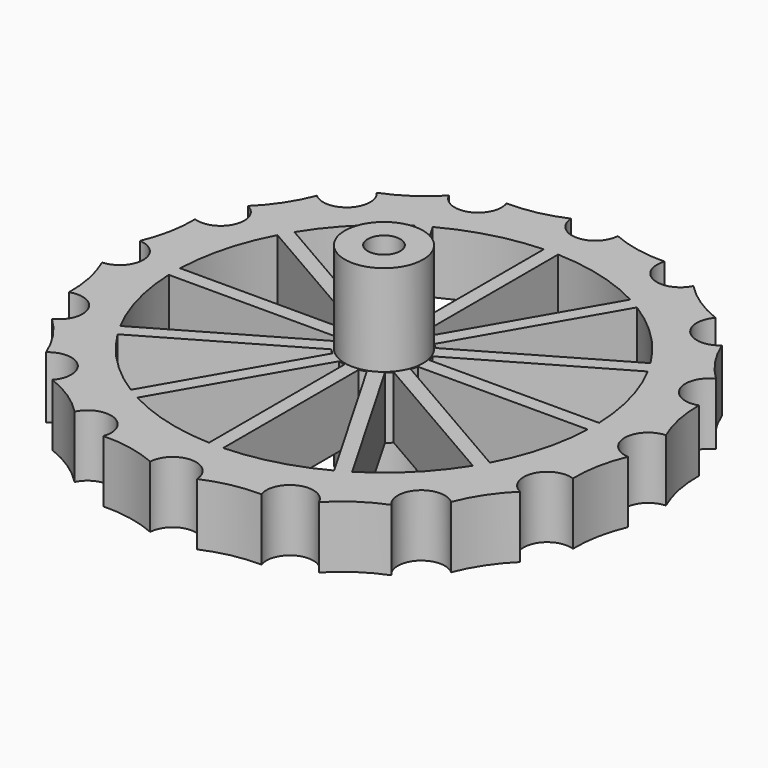
from build123d import *

# Parameters (mm, degrees)
F3_DEPTH = 15.501
F5_DEPTH = 25


with BuildPart() as f1:
    # F0 (on Front) → F1 (revolve)
    with BuildSketch(Plane.XZ):
        Polygon((6, 29.5), (2.5, 29.5), (2.5, 0), (6, 0), (6, 6), (40.5, 6), (40.5, 15.5), (6, 15.5), align=None)
    revolve(axis=Axis((0, 0, 0.1838468015), (0, 0, -1)))

    # F2 (on face) → F3 (cut, through all)
    with BuildSketch(Plane.XY.offset(15.5)):
        with BuildLine():
            ThreePointArc((40.5, 0), (40.4599802274, 1.8), (40.34, 3.5964426869))
            ThreePointArc((40.34, 3.5964426869), (36.9000513354, 0.0192253002), (40.3015970682, -3.5945286585))
            ThreePointArc((40.3015970682, -3.5945286585), (40.3207959787, -3.5955369444), (40.34, -3.5964426869))
            ThreePointArc((40.34, -3.5964426869), (40.4599802274, -1.8), (40.5, 0))
        make_face()
        with BuildLine():
            ThreePointArc((35.8930013098, 18.7601294499), (37.4171210667, 15.4986790108), (38.6455993732, 12.1147698734))
            ThreePointArc((38.6455993732, 12.1147698734), (40.3652155278, 13.43258631), (41.0171210667, 15.4986790108))
            ThreePointArc((41.0171210667, 15.4986790108), (39.3501457529, 18.5356866766), (35.8930013098, 18.7601294499))
        make_face()
        with BuildLine():
            ThreePointArc((25.981618541, 31.0677565651), (28.6378246381, 28.6378246381), (31.0677565651, 25.981618541))
            ThreePointArc((31.0677565651, 25.981618541), (31.9323469811, 27.1865760269), (32.2378246381, 28.6378246381))
            ThreePointArc((32.2378246381, 28.6378246381), (29.9412159935, 31.9935914617), (25.981618541, 31.0677565651))
        make_face()
        with BuildLine():
            ThreePointArc((12.1147698734, 38.6455993732), (15.4986790108, 37.4171210667), (18.7601294499, 35.8930013098))
            ThreePointArc((18.7601294499, 35.8930013098), (19.0130225897, 36.6364872155), (19.0986790108, 37.4171210667))
            ThreePointArc((19.0986790108, 37.4171210667), (16.1223484365, 40.962686811), (12.1147698734, 38.6455993732))
        make_face()
        with BuildLine():
            ThreePointArc((-3.5964426869, 40.34), (0, 40.5), (3.5964426869, 40.34))
            ThreePointArc((3.5964426869, 40.34), (3.5991105618, 40.4199802298), (3.6, 40.5))
            ThreePointArc((3.6, 40.5), (-0.0800197702, 44.0991105618), (-3.5964426869, 40.34))
        make_face()
        with BuildLine():
            ThreePointArc((-18.7601294499, 35.8930013098), (-15.4986790108, 37.4171210667), (-12.1147698734, 38.6455993732))
            ThreePointArc((-12.1147698734, 38.6455993732), (-16.8763393673, 40.7430873837), (-18.7601294499, 35.8930013098))
        make_face()
        with BuildLine():
            ThreePointArc((-31.0677565651, 25.981618541), (-28.6378246381, 28.6378246381), (-25.981618541, 31.0677565651))
            ThreePointArc((-25.981618541, 31.0677565651), (-31.1834090503, 31.1834090503), (-31.0677565651, 25.981618541))
        make_face()
        with BuildLine():
            ThreePointArc((-38.6455993732, 12.1147698734), (-37.4171210667, 15.4986790108), (-35.8930013098, 18.7601294499))
            ThreePointArc((-35.8930013098, 18.7601294499), (-40.7430873837, 16.8763393673), (-38.6455993732, 12.1147698734))
        make_face()
        with BuildLine():
            ThreePointArc((-40.34, -3.5964426869), (-40.5, 0), (-40.34, 3.5964426869))
            ThreePointArc((-40.34, 3.5964426869), (-44.1, 0), (-40.34, -3.5964426869))
        make_face()
        with BuildLine():
            ThreePointArc((-38.6455993732, -12.1147698734), (-40.7430873837, -16.8763393673), (-35.8930013098, -18.7601294499))
            ThreePointArc((-35.8930013098, -18.7601294499), (-37.4171210667, -15.4986790108), (-38.6455993732, -12.1147698734))
        make_face()
        with BuildLine():
            ThreePointArc((-31.0677565651, -25.981618541), (-31.1834090503, -31.1834090503), (-25.981618541, -31.0677565651))
            ThreePointArc((-25.981618541, -31.0677565651), (-28.6378246381, -28.6378246381), (-31.0677565651, -25.981618541))
        make_face()
        with BuildLine():
            ThreePointArc((-18.7601294499, -35.8930013098), (-16.8763393673, -40.7430873837), (-12.1147698734, -38.6455993732))
            ThreePointArc((-12.1147698734, -38.6455993732), (-15.4986790108, -37.4171210667), (-18.7601294499, -35.8930013098))
        make_face()
        with BuildLine():
            ThreePointArc((3.6, -40.5), (3.5991105618, -40.4199802298), (3.5964426869, -40.34))
            ThreePointArc((3.5964426869, -40.34), (0, -40.5), (-3.5964426869, -40.34))
            ThreePointArc((-3.5964426869, -40.34), (-0.0800197702, -44.0991105618), (3.6, -40.5))
        make_face()
        with BuildLine():
            ThreePointArc((19.0986790108, -37.4171210667), (19.0130225897, -36.6364872155), (18.7601294499, -35.8930013098))
            ThreePointArc((18.7601294499, -35.8930013098), (15.4986790108, -37.4171210667), (12.1147698734, -38.6455993732))
            ThreePointArc((12.1147698734, -38.6455993732), (16.1223484365, -40.962686811), (19.0986790108, -37.4171210667))
        make_face()
        with BuildLine():
            ThreePointArc((32.2378246381, -28.6378246381), (31.9323469811, -27.1865760269), (31.0677565651, -25.981618541))
            ThreePointArc((31.0677565651, -25.981618541), (28.6378246381, -28.6378246381), (25.981618541, -31.0677565651))
            ThreePointArc((25.981618541, -31.0677565651), (29.9412159935, -31.9935914617), (32.2378246381, -28.6378246381))
        make_face()
        with BuildLine():
            ThreePointArc((41.0171210667, -15.4986790108), (40.3652155278, -13.43258631), (38.6455993732, -12.1147698734))
            ThreePointArc((38.6455993732, -12.1147698734), (37.4171210667, -15.4986790108), (35.8930013098, -18.7601294499))
            ThreePointArc((35.8930013098, -18.7601294499), (39.3501457529, -18.5356866766), (41.0171210667, -15.4986790108))
        make_face()
        with BuildLine():
            ThreePointArc((40.5, 0), (40.4599802274, 1.8), (40.34, 3.5964426869))
            ThreePointArc((40.34, 3.5964426869), (36.9000513354, 0.0192253002), (40.3015970682, -3.5945286585))
            ThreePointArc((40.3015970682, -3.5945286585), (40.3207959787, -3.5955369444), (40.34, -3.5964426869))
            ThreePointArc((40.34, -3.5964426869), (40.4599802274, -1.8), (40.5, 0))
        make_face()
        with BuildLine():
            ThreePointArc((35.8930013098, 18.7601294499), (34.0838449735, 14.1388001609), (38.6093872236, 12.1018420393))
            ThreePointArc((38.6093872236, 12.1018420393), (38.6275105584, 12.1082576095), (38.6455993732, 12.1147698734))
            ThreePointArc((38.6455993732, 12.1147698734), (37.4171210667, 15.4986790108), (35.8930013098, 18.7601294499))
        make_face()
        with BuildLine():
            ThreePointArc((25.981618541, 31.0677565651), (26.0786821852, 26.1058708656), (31.0392481691, 25.95581699))
            ThreePointArc((31.0392481691, 25.95581699), (31.0535368148, 25.9686797039), (31.0677565651, 25.981618541))
            ThreePointArc((31.0677565651, 25.981618541), (28.6378246381, 28.6378246381), (25.981618541, 31.0677565651))
        make_face()
        with BuildLine():
            ThreePointArc((12.1147698734, 38.6455993732), (14.1032764381, 34.0985593813), (18.7436649524, 35.8582540941))
            ThreePointArc((18.7436649524, 35.8582540941), (18.7519435922, 35.8756057202), (18.7601294499, 35.8930013098))
            ThreePointArc((18.7601294499, 35.8930013098), (15.4986790108, 37.4171210667), (12.1147698734, 38.6455993732))
        make_face()
        with BuildLine():
            ThreePointArc((-3.5964426869, 40.34), (-0.0192253002, 36.9000513354), (3.5945286585, 40.3015970682))
            ThreePointArc((3.5945286585, 40.3015970682), (3.5955369444, 40.3207959787), (3.5964426869, 40.34))
            ThreePointArc((3.5964426869, 40.34), (0, 40.5), (-3.5964426869, 40.34))
        make_face()
        with BuildLine():
            ThreePointArc((-11.8986790108, 37.4171210667), (-11.9498332056, 38.0218469974), (-12.1018420393, 38.6093872236))
            ThreePointArc((-12.1018420393, 38.6093872236), (-12.1082576095, 38.6275105584), (-12.1147698734, 38.6455993732))
            ThreePointArc((-12.1147698734, 38.6455993732), (-15.4986790108, 37.4171210667), (-18.7601294499, 35.8930013098))
            ThreePointArc((-18.7601294499, 35.8930013098), (-14.7180451596, 33.9027774878), (-11.8986790108, 37.4171210667))
        make_face()
        with BuildLine():
            ThreePointArc((-25.0378246381, 28.6378246381), (-25.2751450865, 29.9232764005), (-25.95581699, 31.0392481691))
            ThreePointArc((-25.95581699, 31.0392481691), (-25.9686797039, 31.0535368148), (-25.981618541, 31.0677565651))
            ThreePointArc((-25.981618541, 31.0677565651), (-28.6378246381, 28.6378246381), (-31.0677565651, 25.981618541))
            ThreePointArc((-31.0677565651, 25.981618541), (-27.1865760269, 25.343302295), (-25.0378246381, 28.6378246381))
        make_face()
        with BuildLine():
            ThreePointArc((-33.8171210667, 15.4986790108), (-34.3698336581, 17.4154574146), (-35.8582540941, 18.7436649524))
            ThreePointArc((-35.8582540941, 18.7436649524), (-35.8756057202, 18.7519435922), (-35.8930013098, 18.7601294499))
            ThreePointArc((-35.8930013098, 18.7601294499), (-37.4171210667, 15.4986790108), (-38.6455993732, 12.1147698734))
            ThreePointArc((-38.6455993732, 12.1147698734), (-35.3510283659, 12.5505845497), (-33.8171210667, 15.4986790108))
        make_face()
        with BuildLine():
            ThreePointArc((-36.9, 0), (-37.8852102805, 2.4744443261), (-40.3015970682, 3.5945286585))
            ThreePointArc((-40.3015970682, 3.5945286585), (-40.3207959787, 3.5955369444), (-40.34, 3.5964426869))
            ThreePointArc((-40.34, 3.5964426869), (-40.5, 0), (-40.34, -3.5964426869))
            ThreePointArc((-40.34, -3.5964426869), (-37.8984619934, -2.4883729624), (-36.9, 0))
        make_face()
        with BuildLine():
            ThreePointArc((-38.6455993732, -12.1147698734), (-37.4171210667, -15.4986790108), (-35.8930013098, -18.7601294499))
            ThreePointArc((-35.8930013098, -18.7601294499), (-34.3801134009, -17.431703697), (-33.8171210667, -15.4986790108))
            ThreePointArc((-33.8171210667, -15.4986790108), (-35.3353139388, -12.5616602702), (-38.6093872236, -12.1018420393))
            ThreePointArc((-38.6093872236, -12.1018420393), (-38.6275105584, -12.1082576095), (-38.6455993732, -12.1147698734))
        make_face()
        with BuildLine():
            ThreePointArc((-31.0677565651, -25.981618541), (-28.6378246381, -28.6378246381), (-25.981618541, -31.0677565651))
            ThreePointArc((-25.981618541, -31.0677565651), (-25.2820578144, -29.9412159935), (-25.0378246381, -28.6378246381))
            ThreePointArc((-25.0378246381, -28.6378246381), (-27.1690027823, -25.3510994661), (-31.0392481691, -25.95581699))
            ThreePointArc((-31.0392481691, -25.95581699), (-31.0535368148, -25.9686797039), (-31.0677565651, -25.981618541))
        make_face()
        with BuildLine():
            ThreePointArc((-18.7601294499, -35.8930013098), (-15.4986790108, -37.4171210667), (-12.1147698734, -38.6455993732))
            ThreePointArc((-12.1147698734, -38.6455993732), (-11.9531132665, -38.0407904925), (-11.8986790108, -37.4171210667))
            ThreePointArc((-11.8986790108, -37.4171210667), (-14.6992884273, -33.9069964685), (-18.7436649524, -35.8582540941))
            ThreePointArc((-18.7436649524, -35.8582540941), (-18.7519435922, -35.8756057202), (-18.7601294499, -35.8930013098))
        make_face()
        with BuildLine():
            ThreePointArc((-3.5964426869, -40.34), (0, -40.5), (3.5964426869, -40.34))
            ThreePointArc((3.5964426869, -40.34), (0.0192253002, -36.9000513354), (-3.5945286585, -40.3015970682))
            ThreePointArc((-3.5945286585, -40.3015970682), (-3.5955369444, -40.3207959787), (-3.5964426869, -40.34))
        make_face()
        with BuildLine():
            ThreePointArc((12.1147698734, -38.6455993732), (15.4986790108, -37.4171210667), (18.7601294499, -35.8930013098))
            ThreePointArc((18.7601294499, -35.8930013098), (14.1388001609, -34.0838449735), (12.1018420393, -38.6093872236))
            ThreePointArc((12.1018420393, -38.6093872236), (12.1082576095, -38.6275105584), (12.1147698734, -38.6455993732))
        make_face()
        with BuildLine():
            ThreePointArc((25.981618541, -31.0677565651), (28.6378246381, -28.6378246381), (31.0677565651, -25.981618541))
            ThreePointArc((31.0677565651, -25.981618541), (26.1058708656, -26.0786821852), (25.95581699, -31.0392481691))
            ThreePointArc((25.95581699, -31.0392481691), (25.9686797039, -31.0535368148), (25.981618541, -31.0677565651))
        make_face()
        with BuildLine():
            ThreePointArc((35.8930013098, -18.7601294499), (37.4171210667, -15.4986790108), (38.6455993732, -12.1147698734))
            ThreePointArc((38.6455993732, -12.1147698734), (34.0985593813, -14.1032764381), (35.8582540941, -18.7436649524))
            ThreePointArc((35.8582540941, -18.7436649524), (35.8756057202, -18.7519435922), (35.8930013098, -18.7601294499))
        make_face()
        with BuildLine():
            ThreePointArc((38.6093872236, 12.1018420393), (39.0153553356, 7.7556797687), (40.34, 3.5964426869))
            ThreePointArc((40.34, 3.5964426869), (39.7218038563, 7.9011580417), (38.6455993732, 12.1147698734))
            ThreePointArc((38.6455993732, 12.1147698734), (38.6275105584, 12.1082576095), (38.6093872236, 12.1018420393))
        make_face()
        with BuildLine():
            ThreePointArc((31.0392481691, 25.95581699), (33.077518094, 22.0958438938), (35.8930013098, 18.7601294499))
            ThreePointArc((35.8930013098, 18.7601294499), (33.6745192983, 22.5005944373), (31.0677565651, 25.981618541))
            ThreePointArc((31.0677565651, 25.981618541), (31.0535368148, 25.9686797039), (31.0392481691, 25.95581699))
        make_face()
        with BuildLine():
            ThreePointArc((25.981618541, -31.0677565651), (25.9686797039, -31.0535368148), (25.95581699, -31.0392481691))
            ThreePointArc((25.95581699, -31.0392481691), (22.0958438938, -33.077518094), (18.7601294499, -35.8930013098))
            ThreePointArc((18.7601294499, -35.8930013098), (22.5005944373, -33.6745192983), (25.981618541, -31.0677565651))
        make_face()
        with BuildLine():
            ThreePointArc((18.7436649524, 35.8582540941), (22.1039285711, 33.0721160854), (25.981618541, 31.0677565651))
            ThreePointArc((25.981618541, 31.0677565651), (22.5005944373, 33.6745192983), (18.7601294499, 35.8930013098))
            ThreePointArc((18.7601294499, 35.8930013098), (18.7519435922, 35.8756057202), (18.7436649524, 35.8582540941))
        make_face()
        with BuildLine():
            ThreePointArc((35.8930013098, -18.7601294499), (35.8756057202, -18.7519435922), (35.8582540941, -18.7436649524))
            ThreePointArc((35.8582540941, -18.7436649524), (33.0721160854, -22.1039285711), (31.0677565651, -25.981618541))
            ThreePointArc((31.0677565651, -25.981618541), (33.6745192983, -22.5005944373), (35.8930013098, -18.7601294499))
        make_face()
        with BuildLine():
            ThreePointArc((38.6455993732, -12.1147698734), (39.7218038563, -7.9011580417), (40.34, -3.5964426869))
            ThreePointArc((40.34, -3.5964426869), (40.3207959787, -3.5955369444), (40.3015970682, -3.5945286585))
            ThreePointArc((40.3015970682, -3.5945286585), (39.0134584025, -7.7652162958), (38.6455993732, -12.1147698734))
        make_face()
        with BuildLine():
            ThreePointArc((-40.3015970682, 3.5945286585), (-39.0134584025, 7.7652162958), (-38.6455993732, 12.1147698734))
            ThreePointArc((-38.6455993732, 12.1147698734), (-39.7218038563, 7.9011580417), (-40.34, 3.5964426869))
            ThreePointArc((-40.34, 3.5964426869), (-40.3207959787, 3.5955369444), (-40.3015970682, 3.5945286585))
        make_face()
        with BuildLine():
            ThreePointArc((-40.34, -3.5964426869), (-39.7218038563, -7.9011580417), (-38.6455993732, -12.1147698734))
            ThreePointArc((-38.6455993732, -12.1147698734), (-38.6275105584, -12.1082576095), (-38.6093872236, -12.1018420393))
            ThreePointArc((-38.6093872236, -12.1018420393), (-39.0153553356, -7.7556797687), (-40.34, -3.5964426869))
        make_face()
        with BuildLine():
            ThreePointArc((-35.8930013098, -18.7601294499), (-33.6745192983, -22.5005944373), (-31.0677565651, -25.981618541))
            ThreePointArc((-31.0677565651, -25.981618541), (-31.0535368148, -25.9686797039), (-31.0392481691, -25.95581699))
            ThreePointArc((-31.0392481691, -25.95581699), (-33.077518094, -22.0958438938), (-35.8930013098, -18.7601294499))
        make_face()
        with BuildLine():
            ThreePointArc((-35.8582540941, 18.7436649524), (-33.0721160854, 22.1039285711), (-31.0677565651, 25.981618541))
            ThreePointArc((-31.0677565651, 25.981618541), (-33.6745192983, 22.5005944373), (-35.8930013098, 18.7601294499))
            ThreePointArc((-35.8930013098, 18.7601294499), (-35.8756057202, 18.7519435922), (-35.8582540941, 18.7436649524))
        make_face()
        with BuildLine():
            ThreePointArc((-25.981618541, -31.0677565651), (-22.5005944373, -33.6745192983), (-18.7601294499, -35.8930013098))
            ThreePointArc((-18.7601294499, -35.8930013098), (-18.7519435922, -35.8756057202), (-18.7436649524, -35.8582540941))
            ThreePointArc((-18.7436649524, -35.8582540941), (-22.1039285711, -33.0721160854), (-25.981618541, -31.0677565651))
        make_face()
        with BuildLine():
            ThreePointArc((-25.95581699, 31.0392481691), (-22.0958438938, 33.077518094), (-18.7601294499, 35.8930013098))
            ThreePointArc((-18.7601294499, 35.8930013098), (-22.5005944373, 33.6745192983), (-25.981618541, 31.0677565651))
            ThreePointArc((-25.981618541, 31.0677565651), (-25.9686797039, 31.0535368148), (-25.95581699, 31.0392481691))
        make_face()
        with BuildLine():
            ThreePointArc((-12.1018420393, 38.6093872236), (-7.7556797687, 39.0153553356), (-3.5964426869, 40.34))
            ThreePointArc((-3.5964426869, 40.34), (-7.9011580417, 39.7218038563), (-12.1147698734, 38.6455993732))
            ThreePointArc((-12.1147698734, 38.6455993732), (-12.1082576095, 38.6275105584), (-12.1018420393, 38.6093872236))
        make_face()
        with BuildLine():
            ThreePointArc((-3.5964426869, -40.34), (-3.5955369444, -40.3207959787), (-3.5945286585, -40.3015970682))
            ThreePointArc((-3.5945286585, -40.3015970682), (-7.7652162958, -39.0134584025), (-12.1147698734, -38.6455993732))
            ThreePointArc((-12.1147698734, -38.6455993732), (-7.9011580417, -39.7218038563), (-3.5964426869, -40.34))
        make_face()
        with BuildLine():
            ThreePointArc((12.1147698734, -38.6455993732), (12.1082576095, -38.6275105584), (12.1018420393, -38.6093872236))
            ThreePointArc((12.1018420393, -38.6093872236), (7.7556797687, -39.0153553356), (3.5964426869, -40.34))
            ThreePointArc((3.5964426869, -40.34), (7.9011580417, -39.7218038563), (12.1147698734, -38.6455993732))
        make_face()
        with BuildLine():
            ThreePointArc((3.5945286585, 40.3015970682), (7.7652162958, 39.0134584025), (12.1147698734, 38.6455993732))
            ThreePointArc((12.1147698734, 38.6455993732), (7.9011580417, 39.7218038563), (3.5964426869, 40.34))
            ThreePointArc((3.5964426869, 40.34), (3.5955369444, 40.3207959787), (3.5945286585, 40.3015970682))
        make_face()
    extrude(amount=-F3_DEPTH, mode=Mode.SUBTRACT)

    # F4 (on face) → F5 (cut)
    with BuildSketch(Plane.XY.offset(15.5)):
        with BuildLine():
            ThreePointArc((16.9482887205, -27.284596489), (22.6796641072, -22.7448133012), (27.235868817, -17.0264836624))
            Line((27.235868817, -17.0264836624), (4.6940979177, -4.0119861658))
            ThreePointArc((4.6940979177, -4.0119861658), (4.335993191, -4.4037789366), (3.9458007869, -4.7636267633))
            Line((3.9458007869, -4.7636267633), (16.9482887205, -27.284596489))
        make_face()
        with BuildLine():
            ThreePointArc((1.0322976176, -32.1033963585), (8.2566487659, -31.0406418632), (15.0542741663, -28.3736237631))
            Line((15.0542741663, -28.3736237631), (2.0561622412, -5.8602335064))
            ThreePointArc((2.0561622412, -5.8602335064), (1.5501380653, -6.0204836356), (1.0322976176, -6.137024793))
            Line((1.0322976176, -6.137024793), (1.0322976176, -32.1033963585))
        make_face()
        with BuildLine():
            ThreePointArc((-15.1429622421, -28.326390357), (-8.3632583202, -31.0120880689), (-1.1524807385, -32.0993066011))
            Line((-1.1524807385, -32.0993066011), (-1.1524807385, -6.1418948176))
            ThreePointArc((-1.1524807385, -6.1418948176), (-1.6708355944, -6.0276634125), (-2.1775691559, -5.8696707915))
            Line((-2.1775691559, -5.8696707915), (-15.1429622421, -28.326390357))
        make_face()
        with BuildLine():
            ThreePointArc((-27.2604705062, -16.98706696), (-22.7316318961, -22.6928756984), (-17.033559471, -27.2314441018))
            Line((-17.033559471, -27.2314441018), (-4.0720777262, -4.7814991785))
            ThreePointArc((-4.0720777262, -4.7814991785), (-4.4638704971, -4.4233944518), (-4.8237183238, -4.0332020477))
            Line((-4.8237183238, -4.0332020477), (-27.2604705062, -16.98706696))
        make_face()
        with BuildLine():
            ThreePointArc((-32.1004668275, -1.1196988784), (-31.0234649839, -8.3209564665), (-28.3521881803, -15.094605709))
            Line((-28.3521881803, -15.094605709), (-5.9203250669, -2.143563502))
            ThreePointArc((-5.9203250669, -2.143563502), (-6.0805751961, -1.6375393261), (-6.1971163534, -1.1196988784))
            Line((-6.1971163534, -1.1196988784), (-32.1004668275, -1.1196988784))
        make_face()
        with BuildLine():
            Line((-4.0932936082, 4.736317063), (-17.068298013, 27.2096839206))
            ThreePointArc((-17.068298013, 27.2096839206), (-22.7641004058, 22.6603051356), (-27.2874018766, 16.9437715679))
            Line((-27.2874018766, 16.9437715679), (-4.841590739, 3.9846764654))
            ThreePointArc((-4.841590739, 3.9846764654), (-4.4834860123, 4.3764692363), (-4.0932936082, 4.736317063))
        make_face()
        with BuildLine():
            Line((-1.1797904389, 6.1097150926), (-1.1797904389, 32.0983144517))
            ThreePointArc((-1.1797904389, 32.0983144517), (-8.3962320791, 31.0031769823), (-15.1790947887, 28.3070446624))
            Line((-15.1790947887, 28.3070446624), (-2.2036550625, 5.8329238061))
            ThreePointArc((-2.2036550625, 5.8329238061), (-1.6976308865, 5.9931739353), (-1.1797904389, 6.1097150926))
        make_face()
        with BuildLine():
            Line((-5.929762352, 2.0901678951), (-28.3761159001, 15.0495761584))
            ThreePointArc((-28.3761159001, 15.0495761584), (-31.0371069057, 8.2699269068), (-32.1023254894, 1.0650794777))
            Line((-32.1023254894, 1.0650794777), (-6.2019863781, 1.0650794777))
            ThreePointArc((-6.2019863781, 1.0650794777), (-6.087754973, 1.5834343336), (-5.929762352, 2.0901678951))
        make_face()
        with BuildLine():
            Line((2.0300763346, 5.8423610912), (15.0422027861, 28.3800252196))
            ThreePointArc((15.0422027861, 28.3800252196), (8.2368421689, 31.0459035495), (1.0049879172, 32.1042628853))
            Line((1.0049879172, 32.1042628853), (1.0049879172, 6.1145851173))
            ThreePointArc((1.0049879172, 6.1145851173), (1.5233427732, 6.0003537122), (2.0300763346, 5.8423610912))
        make_face()
        with BuildLine():
            Line((4.6762255025, 4.0058923474), (27.2339279439, 17.0295879242))
            ThreePointArc((27.2339279439, 17.0295879242), (22.6735299258, 22.750928263), (16.9366820084, 27.2918027743))
            Line((16.9366820084, 27.2918027743), (3.924584905, 4.7541894782))
            ThreePointArc((3.924584905, 4.7541894782), (4.3163776758, 4.3960847515), (4.6762255025, 4.0058923474))
        make_face()
        with BuildLine():
            Line((6.0496235322, 1.092389178), (32.1014077885, 1.092389178))
            ThreePointArc((32.1014077885, 1.092389178), (31.0205100366, 8.3319657461), (28.3285982753, 15.1388313907))
            Line((28.3285982753, 15.1388313907), (5.7728322456, 2.1162538017))
            ThreePointArc((5.7728322456, 2.1162538017), (5.9330823748, 1.6102296257), (6.0496235322, 1.092389178))
        make_face()
        with BuildLine():
            ThreePointArc((28.330323496, -15.135602622), (31.0209847921, -8.3301979959), (32.1014077885, -1.092389178))
            Line((32.1014077885, -1.092389178), (6.0544935568, -1.092389178))
            ThreePointArc((6.0544935568, -1.092389178), (5.9402621517, -1.610744034), (5.7822695307, -2.1174775954))
            Line((5.7822695307, -2.1174775954), (28.330323496, -15.135602622))
        make_face()
    extrude(amount=-F5_DEPTH, mode=Mode.SUBTRACT)


solid = f1.part
